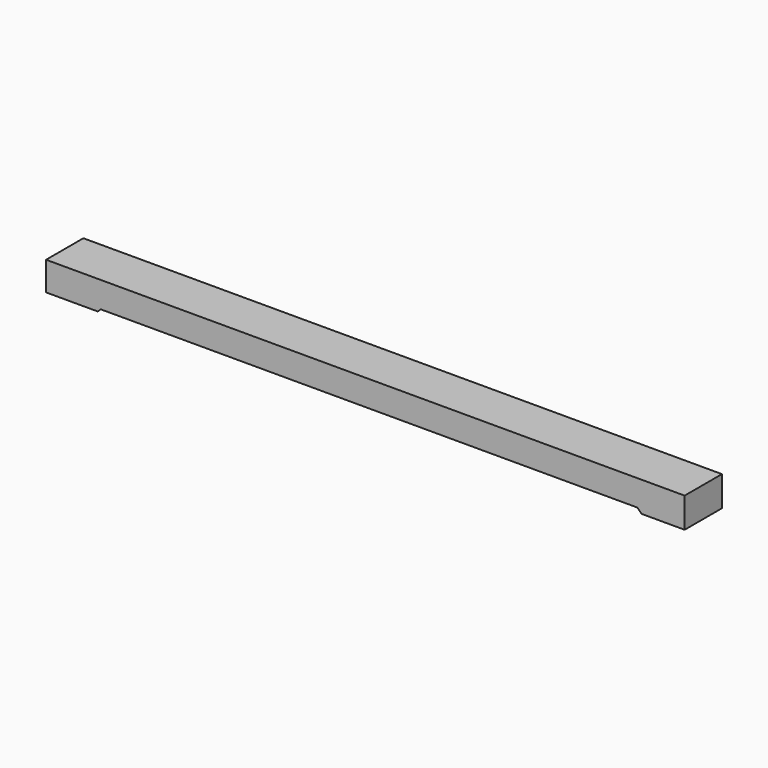
from build123d import *

# Parameters (mm, degrees)
EXTRUDE033_DEPTH = 402
EXTRUDE012_DEPTH = 405


with BuildPart() as extrude033:
    # Sketch034 → Extrude033 (new body, symmetric)
    with BuildSketch(Plane.XZ):
        Polygon((-597, -89), (-597, 411), (10497, 411), (10497, -112), (9747, -112), (9674, -39), (350, -39), (300, -89), align=None)
    extrude(amount=EXTRUDE033_DEPTH, both=True)


with BuildPart() as extrude033_1:
    # Extrude033 placement: moved
    add(extrude033.part.moved(Location((0, 0, -3))))


with BuildPart() as cut003:
    # Sketch020 → Extrude012 (new body, symmetric)
    with BuildSketch(Plane.XZ):
        Polygon((-600, -89), (-600, 411), (10500, 411), (10500, -112), (9750, -112), (9677, -39), (350, -39), (300, -89), align=None)
    extrude(amount=EXTRUDE012_DEPTH, both=True)

    # Cut003: cut Extrude033
    add(extrude033_1.part, mode=Mode.SUBTRACT)


solid = cut003.part
